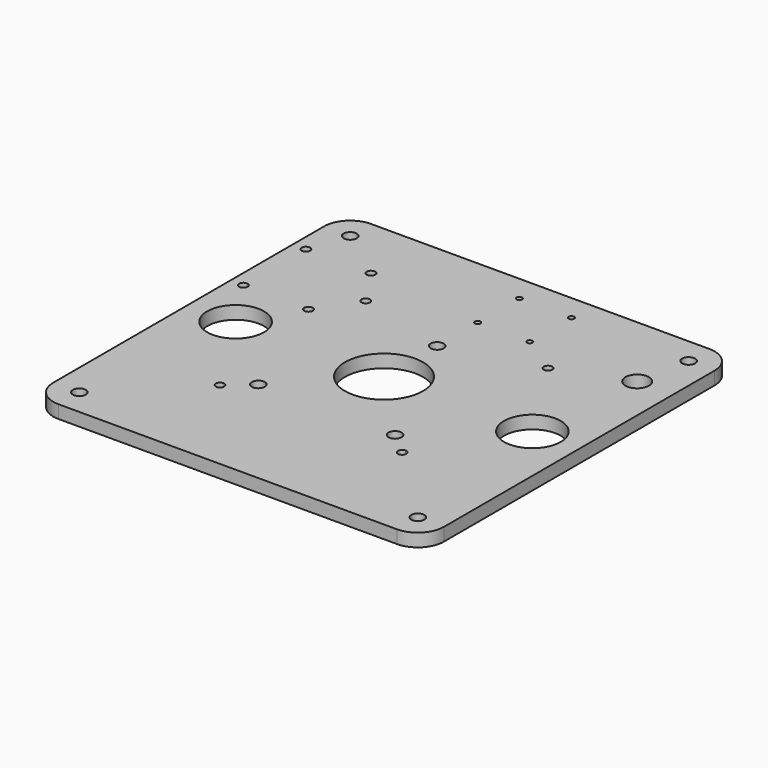
from build123d import *

# Parameters (mm, degrees)
F0_W      = 190.5
F0_H      = 190.5
F0_R      = 3.175
F1_DEPTH  = 6.35
F3_DEPTH  = 6.351
F5_DEPTH  = 6.351
F6_R      = 5.715
F7_DEPTH  = 6.351
F8_R      = 3.175
F8_R_2    = 19.05
F9_DEPTH  = 6.351
F10_R     = 12.7
F12_DEPTH = 6.351
F13_R     = 13.843
F14_DEPTH = 6.351


with BuildPart() as f1:
    # F0 (on Top) → F1 (new body)
    with BuildSketch(Plane.XY):
        Rectangle(F0_W, F0_H)
        with Locations((-82.55, -82.55)):
            Circle(F0_R, mode=Mode.SUBTRACT)
        with Locations((82.55, -82.55)):
            Circle(F0_R, mode=Mode.SUBTRACT)
        with Locations((-82.55, 82.55)):
            Circle(F0_R, mode=Mode.SUBTRACT)
        with Locations((82.55, 82.55)):
            Circle(F0_R, mode=Mode.SUBTRACT)
    extrude(amount=F1_DEPTH)

    # F2 (on face) → F3 (cut, through all)
    with BuildSketch(Plane.XY.offset(6.35)):
        with BuildLine():
            Line((-88.9, 61.4426), (-88.9, 63.5))
            Line((-88.9, 63.5), (-86.8426, 63.5))
            ThreePointArc((-86.8426, 63.5), (-90.354801, 64.954801), (-88.9, 61.4426))
        make_face()
        with BuildLine():
            Line((-86.8426, 63.5), (-88.9, 63.5))
            Line((-88.9, 63.5), (-88.9, 61.4426))
            ThreePointArc((-88.9, 61.4426), (-87.445199, 62.045199), (-86.8426, 63.5))
        make_face()
        with BuildLine():
            Line((-57.15, 63.5), (-59.2074, 63.5))
            ThreePointArc((-59.2074, 63.5), (-58.604801, 62.045199), (-57.15, 61.4426))
            Line((-57.15, 61.4426), (-57.15, 63.5))
        make_face()
        with BuildLine():
            ThreePointArc((-55.0926, 63.5), (-57.15, 65.5574), (-59.2074, 63.5))
            Line((-59.2074, 63.5), (-57.15, 63.5))
            Line((-57.15, 63.5), (-57.15, 61.4426))
            ThreePointArc((-57.15, 61.4426), (-55.695199, 62.045199), (-55.0926, 63.5))
        make_face()
        with BuildLine():
            ThreePointArc((-86.8426, 25.4), (-87.445199, 26.854801), (-88.9, 27.4574))
            Line((-88.9, 27.4574), (-88.9, 25.4))
            Line((-88.9, 25.4), (-86.8426, 25.4))
        make_face()
        with BuildLine():
            Line((-88.9, 25.4), (-88.9, 27.4574))
            ThreePointArc((-88.9, 27.4574), (-90.354801, 23.945199), (-86.8426, 25.4))
            Line((-86.8426, 25.4), (-88.9, 25.4))
        make_face()
        with BuildLine():
            Line((-57.15, 25.4), (-57.15, 27.4574))
            ThreePointArc((-57.15, 27.4574), (-58.604801, 26.854801), (-59.2074, 25.4))
            Line((-59.2074, 25.4), (-57.15, 25.4))
        make_face()
        with BuildLine():
            ThreePointArc((-55.0926, 25.4), (-55.695199, 26.854801), (-57.15, 27.4574))
            Line((-57.15, 27.4574), (-57.15, 25.4))
            Line((-57.15, 25.4), (-59.2074, 25.4))
            ThreePointArc((-59.2074, 25.4), (-57.15, 23.3426), (-55.0926, 25.4))
        make_face()
    extrude(amount=-F3_DEPTH, mode=Mode.SUBTRACT)

    # F4 (on face) → F5 (cut, through all)
    with BuildSketch(Plane.XY.offset(6.35)):
        with BuildLine():
            Line((-44.45, -42.3926), (-44.45, -44.45))
            Line((-44.45, -44.45), (-42.3926, -44.45))
            ThreePointArc((-42.3926, -44.45), (-42.995199, -42.995199), (-44.45, -42.3926))
        make_face()
        with BuildLine():
            Line((-42.3926, -44.45), (-44.45, -44.45))
            Line((-44.45, -44.45), (-44.45, -42.3926))
            ThreePointArc((-44.45, -42.3926), (-45.904801, -45.904801), (-42.3926, -44.45))
        make_face()
        with BuildLine():
            ThreePointArc((44.45, -42.3926), (42.995199, -42.995199), (42.3926, -44.45))
            Line((42.3926, -44.45), (44.45, -44.45))
            Line((44.45, -44.45), (44.45, -42.3926))
        make_face()
        with BuildLine():
            Line((44.45, -44.45), (42.3926, -44.45))
            ThreePointArc((42.3926, -44.45), (44.45, -46.5074), (46.5074, -44.45))
            ThreePointArc((46.5074, -44.45), (45.904801, -42.995199), (44.45, -42.3926))
            Line((44.45, -42.3926), (44.45, -44.45))
        make_face()
        with BuildLine():
            ThreePointArc((-42.3926, 44.45), (-45.904801, 45.904801), (-44.45, 42.3926))
            Line((-44.45, 42.3926), (-44.45, 44.45))
            Line((-44.45, 44.45), (-42.3926, 44.45))
        make_face()
        with BuildLine():
            Line((-44.45, 44.45), (-44.45, 42.3926))
            ThreePointArc((-44.45, 42.3926), (-42.995199, 42.995199), (-42.3926, 44.45))
            Line((-42.3926, 44.45), (-44.45, 44.45))
        make_face()
        with BuildLine():
            ThreePointArc((42.3926, 44.45), (42.995199, 42.995199), (44.45, 42.3926))
            Line((44.45, 42.3926), (44.45, 44.45))
            Line((44.45, 44.45), (42.3926, 44.45))
        make_face()
        with BuildLine():
            Line((44.45, 44.45), (44.45, 42.3926))
            ThreePointArc((44.45, 42.3926), (45.904801, 42.995199), (46.5074, 44.45))
            ThreePointArc((46.5074, 44.45), (44.45, 46.5074), (42.3926, 44.45))
            Line((42.3926, 44.45), (44.45, 44.45))
        make_face()
    extrude(amount=-F5_DEPTH, mode=Mode.SUBTRACT)

    # F6 (on face) → F7 (cut, through all)
    with BuildSketch(Plane.XY.offset(6.35)):
        with Locations((77.7875, 57.15)):
            Circle(F6_R)
    extrude(amount=-F7_DEPTH, mode=Mode.SUBTRACT)

    # F8 (on face) → F9 (cut, through all)
    with BuildSketch(Plane.XY.offset(6.35)):
        with Locations((-33.3375, -34.925)):
            Circle(F8_R)
        with Locations((33.3375, -34.925)):
            Circle(F8_R)
        with Locations((0, 32.385)):
            Circle(F8_R)
        Circle(F8_R_2)
    extrude(amount=-F9_DEPTH, mode=Mode.SUBTRACT)

    # F10
    f10_edges = [f1.edges().sort_by_distance(p)[0] for p in [
        (-95.25, 95.25, 3.175),
        (95.25, 95.25, 3.175),
        (95.25, -95.25, 3.175),
        (-95.25, -95.25, 3.175),
    ]]
    fillet(f10_edges, radius=F10_R)

    # F11 (on face) → F12 (cut, through all)
    with BuildSketch(Plane.XY.offset(6.35)):
        with BuildLine():
            Line((0, 81.2038), (0, 82.55))
            Line((0, 82.55), (1.3462, 82.55))
            ThreePointArc((1.3462, 82.55), (-0.951907, 83.501907), (0, 81.2038))
        make_face()
        with BuildLine():
            ThreePointArc((26.7462, 82.55), (25.4, 83.8962), (24.0538, 82.55))
            Line((24.0538, 82.55), (25.4, 82.55))
            Line((25.4, 82.55), (25.4, 81.2038))
            ThreePointArc((25.4, 81.2038), (26.351907, 81.598093), (26.7462, 82.55))
        make_face()
        with BuildLine():
            ThreePointArc((26.7462, 57.15), (26.351907, 58.101907), (25.4, 58.4962))
            Line((25.4, 58.4962), (25.4, 57.15))
            Line((25.4, 57.15), (24.0538, 57.15))
            ThreePointArc((24.0538, 57.15), (25.4, 55.8038), (26.7462, 57.15))
        make_face()
        with BuildLine():
            Line((25.4, 82.55), (24.0538, 82.55))
            ThreePointArc((24.0538, 82.55), (24.448093, 81.598093), (25.4, 81.2038))
            Line((25.4, 81.2038), (25.4, 82.55))
        make_face()
        with BuildLine():
            Line((25.4, 57.15), (25.4, 58.4962))
            ThreePointArc((25.4, 58.4962), (24.448093, 58.101907), (24.0538, 57.15))
            Line((24.0538, 57.15), (25.4, 57.15))
        make_face()
        with BuildLine():
            ThreePointArc((1.3462, 57.15), (0.951907, 58.101907), (0, 58.4962))
            Line((0, 58.4962), (0, 57.15))
            Line((0, 57.15), (1.3462, 57.15))
        make_face()
        with BuildLine():
            Line((0, 57.15), (0, 58.4962))
            ThreePointArc((0, 58.4962), (-0.951907, 56.198093), (1.3462, 57.15))
            Line((1.3462, 57.15), (0, 57.15))
        make_face()
        with BuildLine():
            Line((1.3462, 82.55), (0, 82.55))
            Line((0, 82.55), (0, 81.2038))
            ThreePointArc((0, 81.2038), (0.951907, 81.598093), (1.3462, 82.55))
        make_face()
    extrude(amount=-F12_DEPTH, mode=Mode.SUBTRACT)

    # F13 (on face) → F14 (cut, through all)
    with BuildSketch(Plane.XY.offset(6.35)):
        with Locations((-72.39, 0)):
            Circle(F13_R)
        with Locations((72.39, 0)):
            Circle(F13_R)
    extrude(amount=-F14_DEPTH, mode=Mode.SUBTRACT)


solid = f1.part
